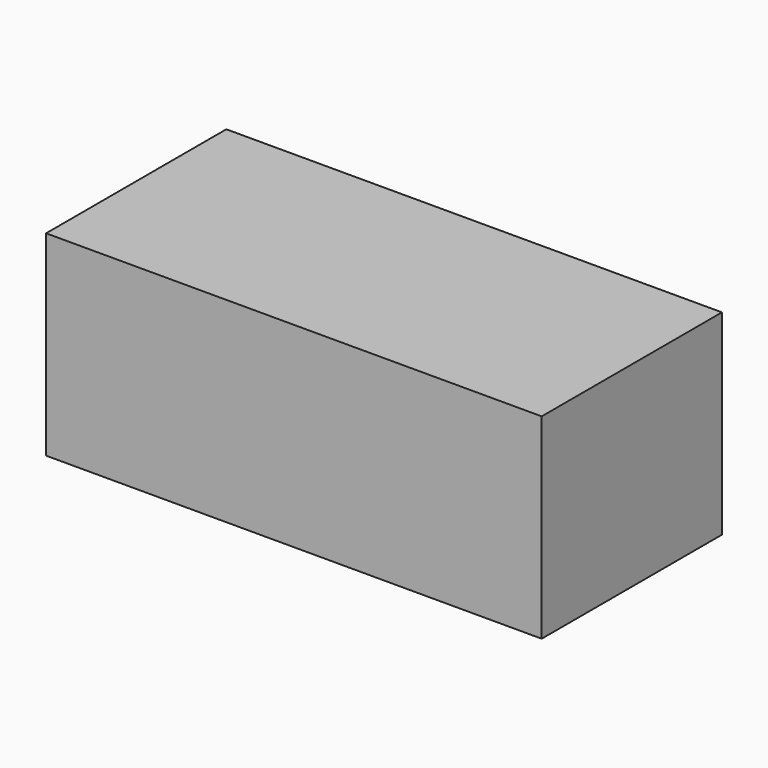
from build123d import *

# Parameters (mm, degrees)
F0_W     = 6600
F0_H     = 3000
F0_W_2   = 6586
F0_H_2   = 2986
F1_DEPTH = 2600
F2_W     = 6600
F2_H     = 3000
F3_DEPTH = 7


with BuildPart() as f1:
    # F0 (on Top) → F1 (new body)
    with BuildSketch(Plane.XY):
        with Locations((3300, 1500)):
            Rectangle(F0_W, F0_H)
        with Locations((3300, 1500)):
            Rectangle(F0_W_2, F0_H_2, mode=Mode.SUBTRACT)
    extrude(amount=F1_DEPTH)

    # F2 (on face) → F3 (join)
    with BuildSketch(Plane.XY.offset(2600)):
        with Locations((3300, 1500)):
            Rectangle(F2_W, F2_H)
    extrude(amount=F3_DEPTH)


solid = f1.part
